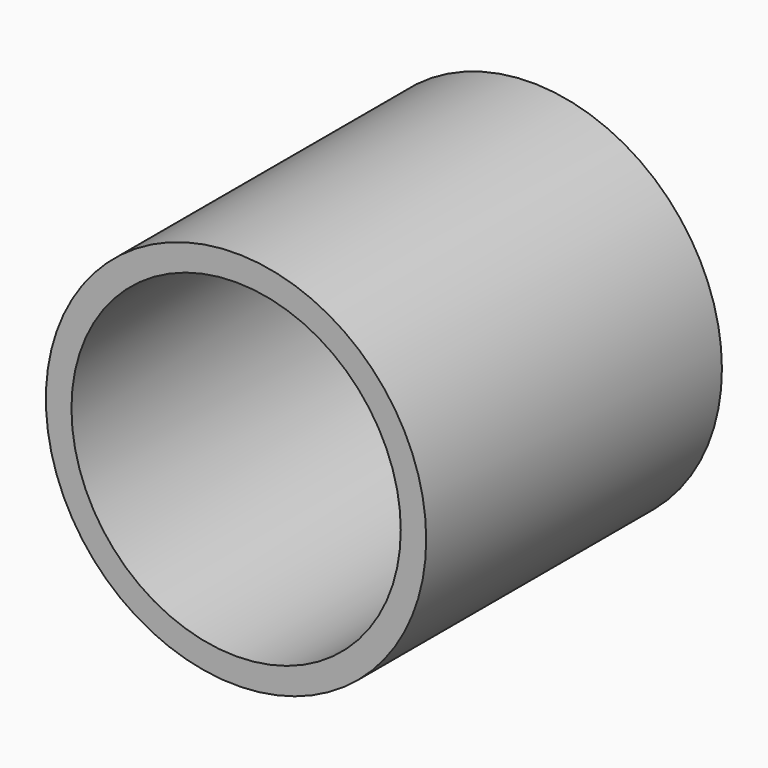
from build123d import *

# Parameters (mm, degrees)
F3_R     = 360.125
F4_DEPTH = 700
F5_R     = 311.825
F6_DEPTH = 700


with BuildPart() as f4:
    # F3 (on Front) → F4 (new body)
    with BuildSketch(Plane.XZ):
        Circle(F3_R)
    extrude(amount=-F4_DEPTH)

    # F5 (on Front) → F6 (cut)
    with BuildSketch(Plane.XZ):
        with Locations((0.15, 0)):
            Circle(F5_R)
    extrude(amount=-F6_DEPTH, mode=Mode.SUBTRACT)


solid = f4.part
